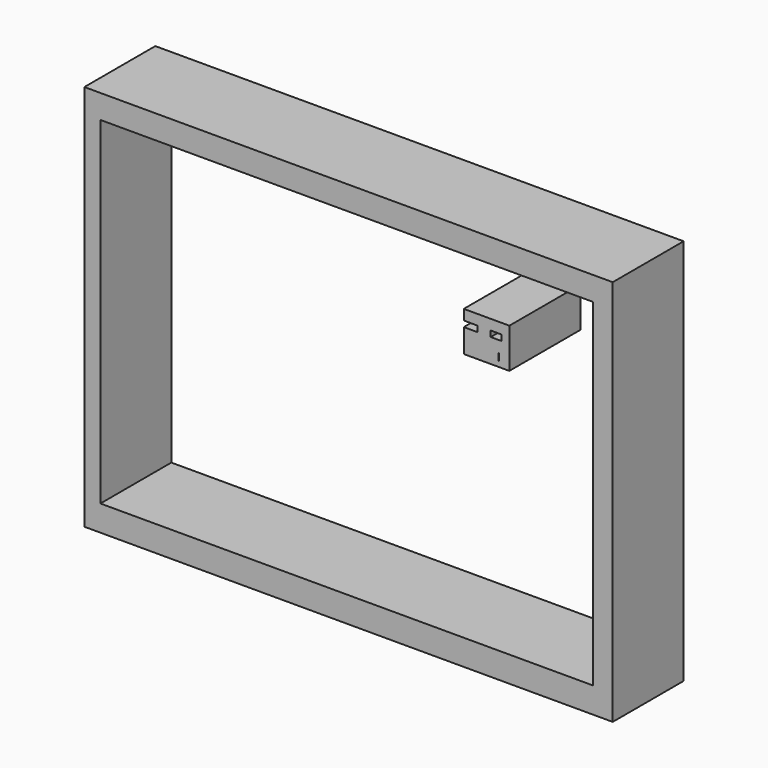
from build123d import *

# Parameters (mm, degrees)
F0_W     = 151.375249
F0_H     = 110.910412
F0_W_2   = 141.075112
F0_H_2   = 96.747726
F1_DEPTH = 25.4
F2_W     = 0.183932
F2_H     = 2.023243
F2_W_2   = 3.12683
F2_H_2   = 1.655381
F3_DEPTH = 25.4


with BuildPart() as f1:
    # F0 (on Front) → F1 (new body)
    with BuildSketch(Plane.XZ):
        with Locations((-0.091963, 0.091964)):
            Rectangle(F0_W, F0_H)
        with Locations((-0.643756, 0.367861)):
            Rectangle(F0_W_2, F0_H_2, mode=Mode.SUBTRACT)
    extrude(amount=F1_DEPTH)


with BuildPart() as f3:
    # F2 (on Front) → F3 (new body)
    with BuildSketch(Plane.XZ):
        Polygon((32.923657, 23.543173), (45.982759, 23.543173), (45.982759, 34.946896), (32.923657, 34.946896), (32.923657, 32.004002), (36.786206, 32.004002), (36.786206, 30.348621), (32.923657, 30.348621), align=None)
        with Locations((42.947896, 26.026241)):
            Rectangle(F2_W, F2_H, mode=Mode.SUBTRACT)
        with Locations((42.212173, 31.176311)):
            Rectangle(F2_W_2, F2_H_2, mode=Mode.SUBTRACT)
    extrude(amount=F3_DEPTH)


solid = Compound([f1.part, f3.part])
